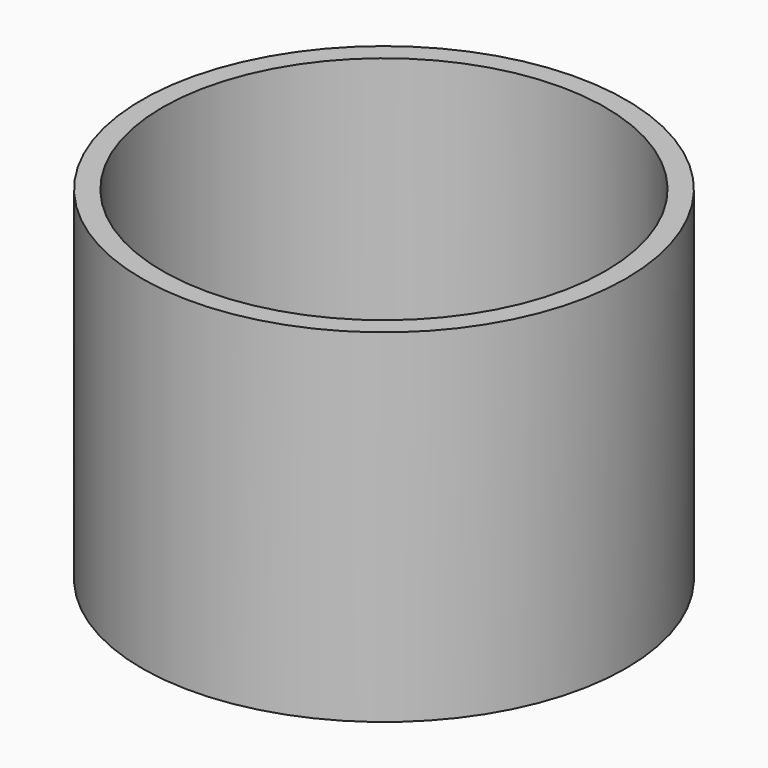
from build123d import *

# Parameters (mm, degrees)
F0_W     = 89.6
F0_H     = 127
F2_R     = 82
F3_DEPTH = 113.284


with BuildPart() as f1:
    # F0 (on Front) → F1 (revolve)
    with BuildSketch(Plane.XZ):
        with Locations((44.8, 63.5)):
            Rectangle(F0_W, F0_H)
    revolve(axis=Axis((0, 0, 118.669905), (0, 0, 1)))

    # F2 (on face) → F3 (cut)
    with BuildSketch(Plane.XY.offset(127)):
        Circle(F2_R)
    extrude(amount=-F3_DEPTH, mode=Mode.SUBTRACT)


solid = f1.part
